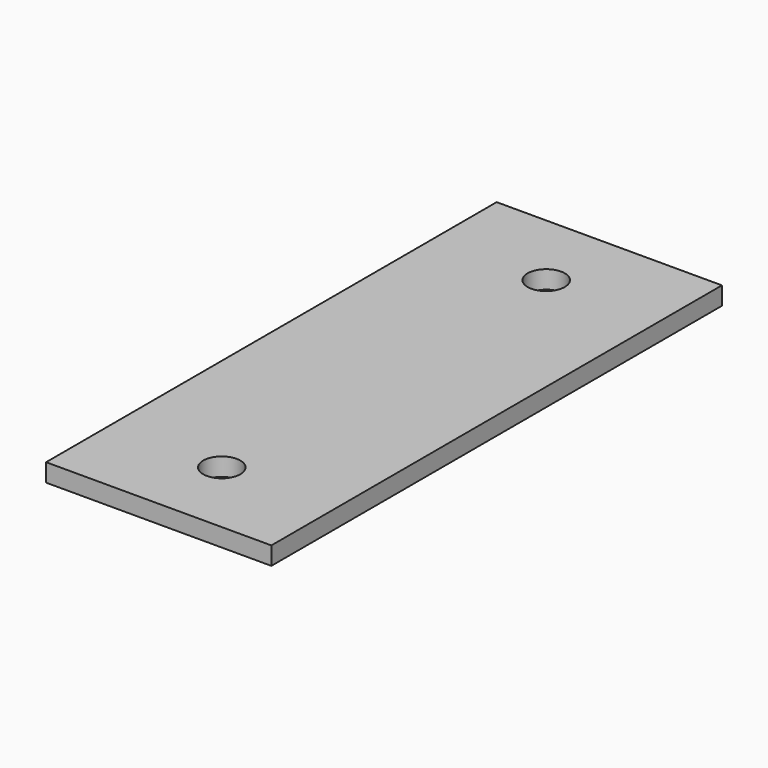
from build123d import *

# Parameters (mm, degrees)
SKETCH_W  = 20
SKETCH_H  = 50
SKETCH_R  = 1.65
PAD_DEPTH = 1.6


with BuildPart() as part:
    # Sketch → Pad (new body)
    with BuildSketch(Plane.XY):
        with Locations((10, 25)):
            Rectangle(SKETCH_W, SKETCH_H)
        with Locations((10, 43)):
            Circle(SKETCH_R, mode=Mode.SUBTRACT)
        with Locations((10, 7)):
            Circle(SKETCH_R, mode=Mode.SUBTRACT)
    extrude(amount=PAD_DEPTH)


solid = part.part
